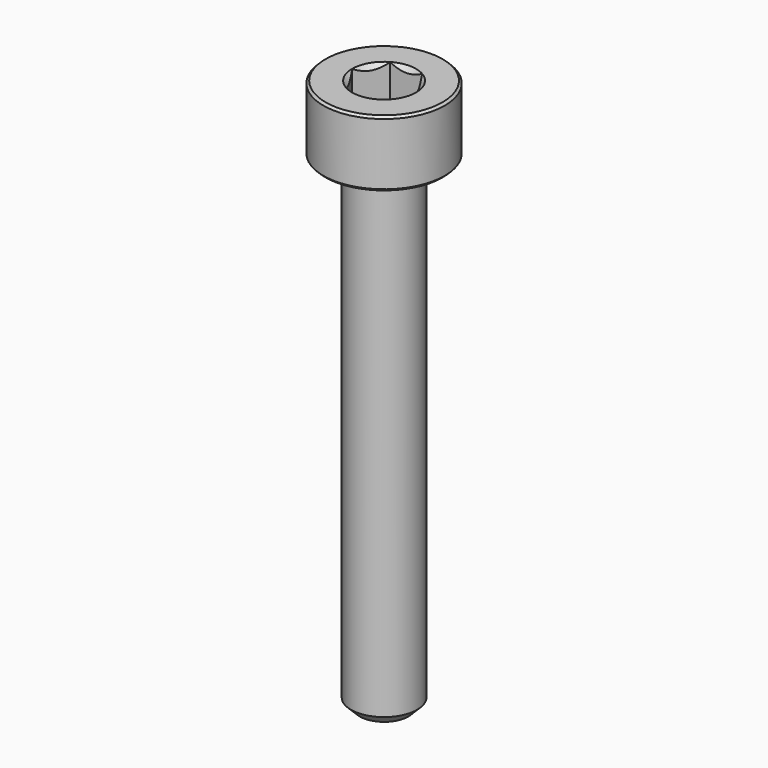
from build123d import *

# Parameters (mm, degrees)
SKETCH001_R     = 3.75
POCKET_DEPTH    = 9.70192
CHAMFER_SIZE    = 0.4
CHAMFER001_SIZE = 0.1


with BuildPart() as pocket:
    # Sketch003 → Revolution001 (revolve)
    with BuildSketch(Plane.XZ):
        Polygon((0, 0.29908), (2.75, 1.3), (2.75, 10), (0, 10), align=None)
    revolve(axis=Axis((0, 0, 0), (0, 0, 1)))

    # Sketch001 (on Face3 of Revolution001) → Pocket (cut, through all)
    with BuildSketch(Plane(origin=(0, 0, 10), x_dir=(-1, 0, 0), z_dir=(0, 0, 1))):
        Circle(SKETCH001_R)
        Polygon((-0.721688, 1.25), (0.721688, 1.25), (1.443376, 0), (0.721688, -1.25), (-0.721688, -1.25), (-1.443376, 0), align=None, mode=Mode.SUBTRACT)
    extrude(amount=-POCKET_DEPTH, mode=Mode.SUBTRACT)


with BuildPart() as chamfer001:
    # Sketch → Revolution (revolve)
    with BuildSketch(Plane.XZ):
        Polygon((1.45, 3), (2.75, 3), (2.75, 0), (1.5, 0), (1.5, -22), (0, -22), (0, 1.549999), align=None)
    revolve(axis=Axis((0, 0, 0), (0, 0, 1)))

    # Cut: cut Pocket
    add(pocket.part, mode=Mode.SUBTRACT)

    # Chamfer
    chamfer_edges = [chamfer001.edges().sort_by_distance(p)[0] for p in [
        (-1.5, 0, -22),
    ]]
    chamfer(chamfer_edges, length=CHAMFER_SIZE)

    # Chamfer001
    chamfer001_edges = [chamfer001.edges().sort_by_distance(p)[0] for p in [
        (-2.75, 0, 0),
        (-2.75, 0, 3),
    ]]
    chamfer(chamfer001_edges, length=CHAMFER001_SIZE)


solid = chamfer001.part
